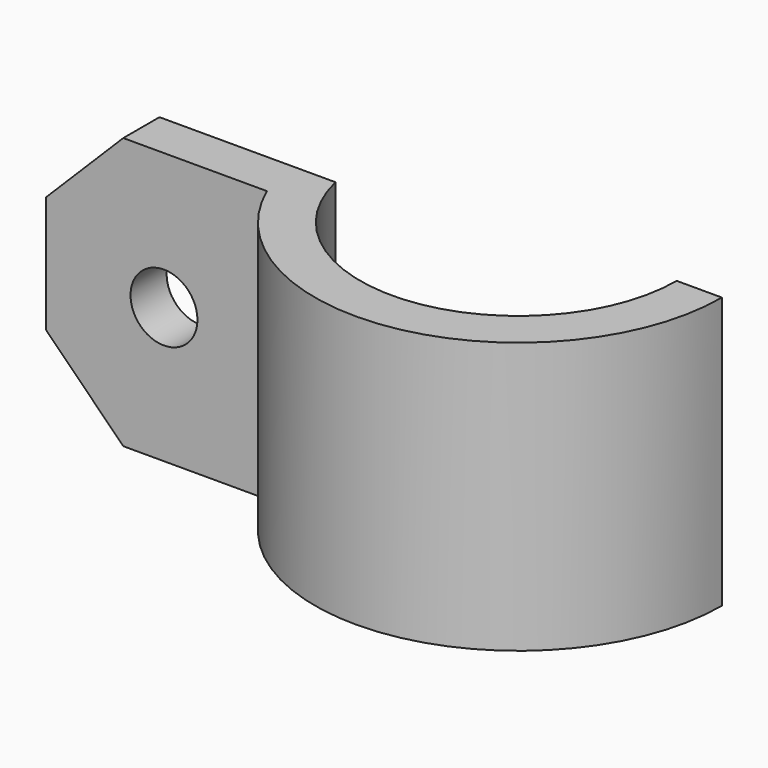
from build123d import *

# Parameters (mm, degrees)
SKETCH016_R       = 1.85
EXTRUDE013_DEPTH  = 12
CYLINDER007_R     = 5
CYLINDER007_DEPTH = 1
EXTRUDE012_DEPTH  = 15


with BuildPart() as extrude013:
    # Sketch016 → Extrude013 (new body)
    with BuildSketch(Plane.XZ):
        Polygon((11.75, 36), (11.75, 19), (-17.25, 19), (-23.25, 25), (-23.25, 30), (-17.25, 36), align=None)
        with Locations((-16, 27.481564)):
            Circle(SKETCH016_R, mode=Mode.SUBTRACT)
    extrude(amount=-EXTRUDE013_DEPTH)


with BuildPart() as unprintable:
    # Cylinder007 → Cylinder007 (new body)
    with BuildSketch(Plane(origin=(-16, 18, 27.5), x_dir=(1, 0, 0), z_dir=(0, -1, 0))):
        Circle(CYLINDER007_R)
    extrude(amount=CYLINDER007_DEPTH)


with BuildPart() as body007:
    # Sketch015 → Extrude012 (new body)
    with BuildSketch(Plane.XY.offset(50)):
        with BuildLine():
            ThreePointArc((8.75, 0), (1.006685, 8.691898), (-8.518363, 2))
            Line((-8.518363, 2), (-22.518363, 2))
            Line((-22.518363, 4.5), (-22.518363, 2))
            Line((-10.310795, 4.5), (-22.518363, 4.5))
            ThreePointArc((11.25, 0), (2.298483, 11.012696), (-10.310795, 4.5))
            Line((8.75, 0), (11.25, 0))
        make_face()
    extrude(amount=EXTRUDE012_DEPTH)


with BuildPart() as body007_1:
    # Extrude012 placement: moved
    add(body007.part.moved(Location((0, 0, -30))))

    # Fusion016: union unprintable
    add(unprintable.part)

    # Common001: intersect Extrude013
    add(extrude013.part, mode=Mode.INTERSECT)


with BuildPart() as part_mirroring008:
    # Part__Mirroring008: instance of Body007
    add(body007_1.part.mirror(Plane(origin=(0, 0, 0), x_dir=(1, 0, 0), z_dir=(0, 1, 0))))


solid = part_mirroring008.part
